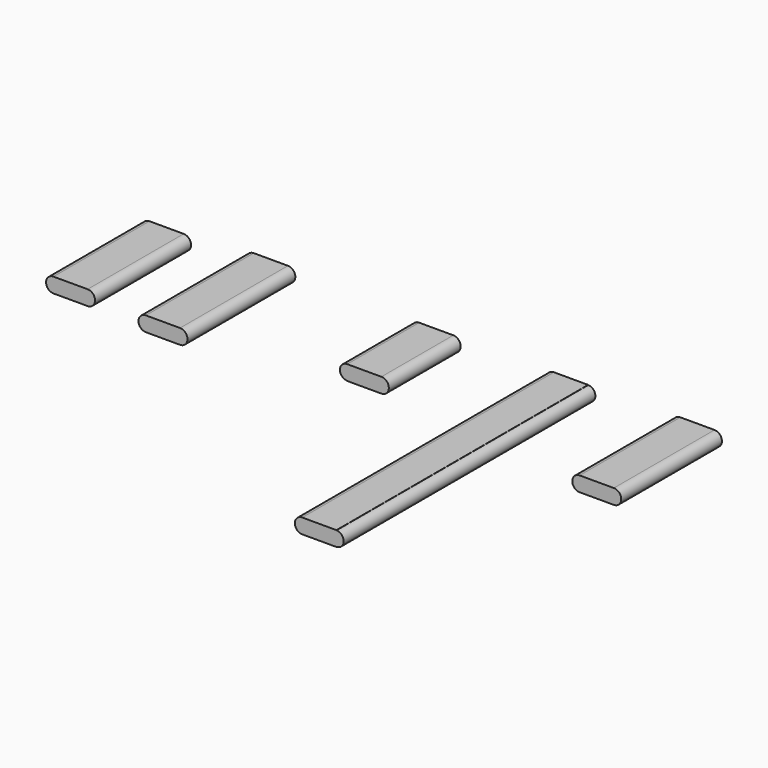
from build123d import *

# Parameters (mm, degrees)
F1_DEPTH = 1335
F3_DEPTH = 1500
F5_DEPTH = 1000
F7_DEPTH = 3500
F9_DEPTH = 1400


with BuildPart() as f1:
    # F0 (on Front) → F1 (new body)
    with BuildSketch(Plane.XZ):
        with BuildLine():
            Line((-190, -82.5), (190, -82.5))
            ThreePointArc((190, -82.5), (272.5, 0), (190, 82.5))
            Line((190, 82.5), (-190, 82.5))
            ThreePointArc((-190, 82.5), (-272.5, 0), (-190, -82.5))
        make_face()
    extrude(amount=F1_DEPTH)


with BuildPart() as f3:
    # F2 (on Front) → F3 (new body)
    with BuildSketch(Plane.XZ):
        with BuildLine():
            Line((969.942719, -17.831109), (1349.942719, -17.831109))
            ThreePointArc((1349.942719, -17.831109), (1432.442719, 64.668891), (1349.942719, 147.168891))
            Line((1349.942719, 147.168891), (969.942719, 147.168891))
            ThreePointArc((969.942719, 147.168891), (887.442719, 64.668891), (969.942719, -17.831109))
        make_face()
    extrude(amount=F3_DEPTH)


with BuildPart() as f5:
    # F4 (on face) → F5 (new body)
    with BuildSketch(Plane(origin=(0, 0, 0), x_dir=(-1, 0, 0), z_dir=(0, 1, 0))):
        with BuildLine():
            ThreePointArc((-3189.947008, 64.668891), (-3272.447008, -17.831109), (-3189.947008, -100.331109))
            Line((-3189.947008, -100.331109), (-2809.947008, -100.331109))
            Line((-2809.947008, -100.331109), (-2809.947008, -98.072462))
            ThreePointArc((-2809.947008, -98.072462), (-2728.576332, -16.701786), (-2809.947008, 64.668891))
            Line((-2809.947008, 64.668891), (-3189.947008, 64.668891))
        make_face()
    extrude(amount=-F5_DEPTH)


with BuildPart() as f7:
    # F6 (on face) → F7 (new body)
    with BuildSketch(Plane(origin=(0, 0, 0), x_dir=(-1, 0, 0), z_dir=(0, 1, 0))):
        with BuildLine():
            Line((-4689.947008, -96.499764), (-4689.947008, -98.415437))
            Line((-4689.947008, -98.415437), (-4309.947008, -98.415437))
            ThreePointArc((-4309.947008, -98.415437), (-4227.447008, -15.915437), (-4309.947008, 66.584563))
            Line((-4309.947008, 66.584563), (-4689.947008, 66.584563))
            Line((-4689.947008, 66.584563), (-4689.947008, 64.668891))
            ThreePointArc((-4689.947008, 64.668891), (-4770.531335, -15.915437), (-4689.947008, -96.499764))
        make_face()
    extrude(amount=-F7_DEPTH)


with BuildPart() as f9:
    # F8 (on face) → F9 (new body)
    with BuildSketch(Plane(origin=(0, 0, 0), x_dir=(-1, 0, 0), z_dir=(0, 1, 0))):
        with BuildLine():
            ThreePointArc((-6096.022549, 82.5), (-6178.522549, 0), (-6096.022549, -82.5))
            Line((-6096.022549, -82.5), (-5716.022549, -82.5))
            ThreePointArc((-5716.022549, -82.5), (-5633.522549, 0), (-5716.022549, 82.5))
            Line((-5716.022549, 82.5), (-6096.022549, 82.5))
        make_face()
    extrude(amount=-F9_DEPTH)


solid = Compound([f1.part, f3.part, f5.part, f7.part, f9.part])
